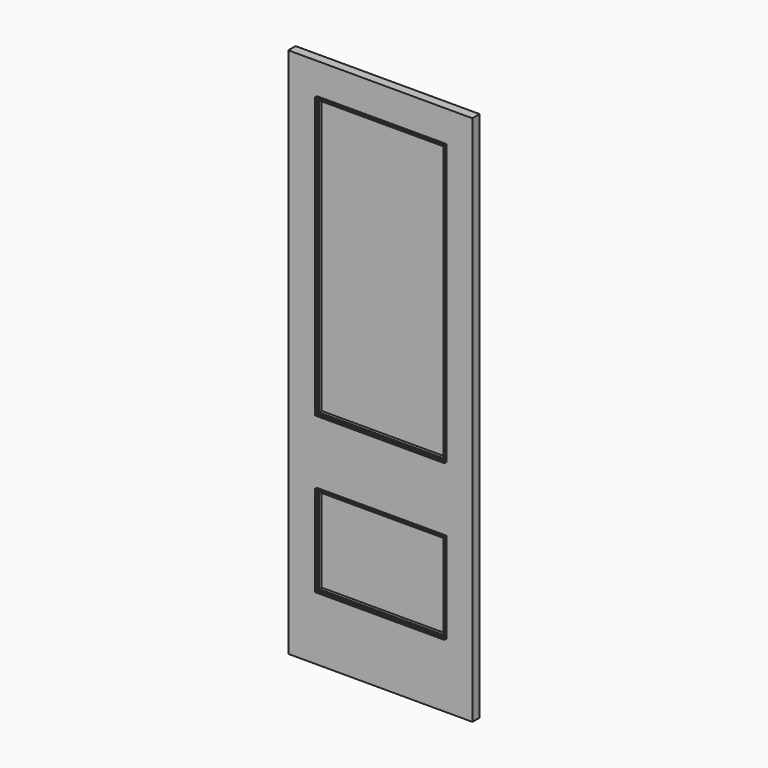
from build123d import *

# Parameters (mm, degrees)
F0_W     = 710
F0_H     = 35
F1_DEPTH = 2050
F2_W     = 500
F2_H     = 350
F2_H_2   = 1080
F3_DEPTH = 10


with BuildPart() as f1:
    # F0 (on Top) → F1 (new body)
    with BuildSketch(Plane.XY):
        with Locations((0, 17.5)):
            Rectangle(F0_W, F0_H)
    extrude(amount=F1_DEPTH)

    # F2 (on face) → F3 (cut)
    with BuildSketch(Plane.XZ):
        with Locations((5, 425)):
            Rectangle(F2_W, F2_H)
        with Locations((5, 1390)):
            Rectangle(F2_W, F2_H_2)
    extrude(amount=-F3_DEPTH, mode=Mode.SUBTRACT)

    # F6: sweep along a path in F5
    with BuildLine(Plane.XZ.offset(-10)) as f6_path:
        Line((255, 1930), (-245, 1930))
        Line((-245, 1930), (-245, 850))
        Line((-245, 850), (255, 850))
        Line((255, 850), (255, 1930))
    # F4 (on Right) → F6 (sweep)
    with BuildSketch(Plane.YZ):
        with BuildLine():
            Line((-10, 850), (10, 850))
            Line((10, 850), (10, 860.4986502942))
            Line((10, 860.4986502942), (-2, 860.4986502942))
            Line((-2, 860.4986502942), (-2, 857.4986502942))
            Line((-2, 857.4986502942), (-5.9265357135, 857.4986502942))
            Line((-5.9265357135, 857.4986502942), (-5.9265357135, 854.9986502942))
            ThreePointArc((-5.9265357135, 854.9986502942), (-7.387997015, 854.4399528765), (-8, 853))
            Line((-8, 853), (-10, 853))
            Line((-10, 853), (-10, 850))
        make_face()
    sweep(path=f6_path.line, transition=Transition.RIGHT)

    # F9: sweep along a path in F8
    with BuildLine(Plane.XZ.offset(-10)) as f9_path:
        Line((255, 600), (-245, 600))
        Line((-245, 600), (-245, 250))
        Line((-245, 250), (255, 250))
        Line((255, 250), (255, 600))
    # F7 (on Right) → F9 (sweep)
    with BuildSketch(Plane.YZ):
        with BuildLine():
            Line((-10, 250), (10, 250))
            Line((10, 250), (10, 260.4986502942))
            Line((10, 260.4986502942), (-2, 260.4986502942))
            Line((-2, 260.4986502942), (-2, 257.4986502942))
            Line((-2, 257.4986502942), (-5.9265357135, 257.4986502942))
            Line((-5.9265357135, 257.4986502942), (-5.9265357135, 254.9986502942))
            ThreePointArc((-5.9265357135, 254.9986502942), (-7.387997015, 254.4399528765), (-8, 253))
            Line((-8, 253), (-10, 253))
            Line((-10, 253), (-10, 250))
        make_face()
    sweep(path=f9_path.line, transition=Transition.RIGHT)


solid = f1.part
